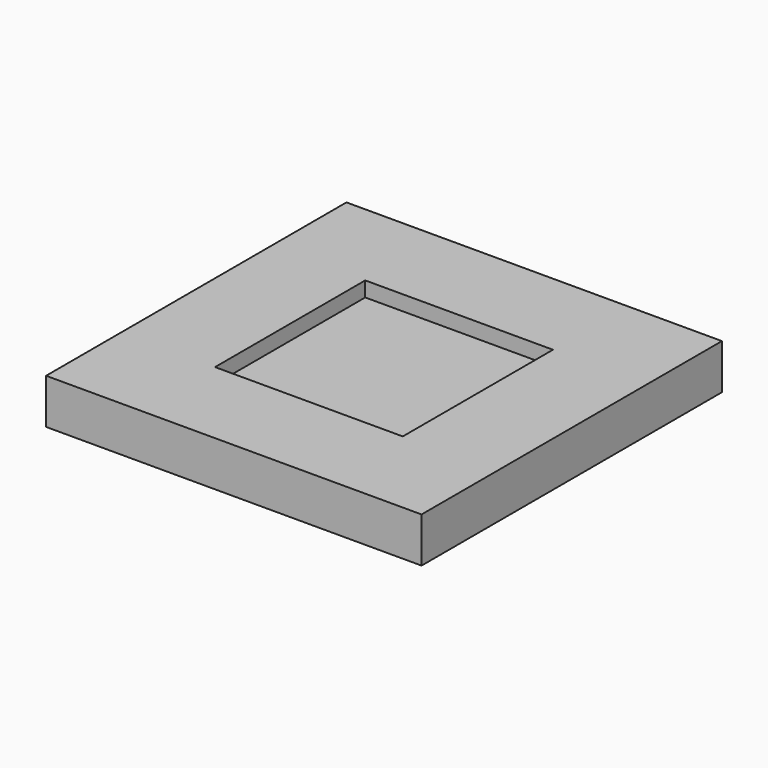
from build123d import *

# Parameters (mm, degrees)
F0_W     = 25
F0_H     = 25
F1_DEPTH = 3
F2_W     = 12.5
F2_H     = 12.5
F3_DEPTH = 1


with BuildPart() as f1:
    # F0 (on Top) → F1 (new body)
    with BuildSketch(Plane.XY):
        Rectangle(F0_W, F0_H)
    extrude(amount=F1_DEPTH)


with BuildPart() as f3:
    # F2 (on face) → F3 (new body)
    with BuildSketch(Plane.XY.offset(3)):
        Rectangle(F2_W, F2_H)
    extrude(amount=-F3_DEPTH)


with BuildPart() as f1_1:
    add(f1.part)

    # F4: cut F3
    add(f3.part, mode=Mode.SUBTRACT)


solid = f1_1.part
